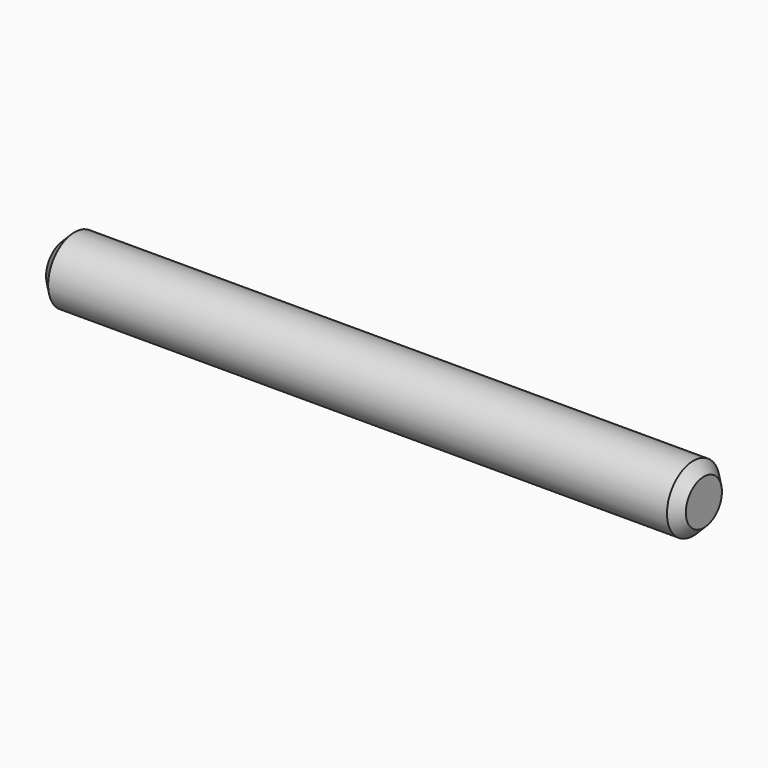
from build123d import *

# Parameters (mm, degrees)
F0_R     = 0.8001
F1_DEPTH = 15.494
F2_SIZE2 = 0.254
F2_SIZE  = 0.254


with BuildPart() as f1:
    # F0 (on Right) → F1 (new body)
    with BuildSketch(Plane.YZ):
        Circle(F0_R)
    extrude(amount=-F1_DEPTH)

    # F2
    f2_edges = [f1.edges().sort_by_distance(p)[0] for p in [
        (-15.494, -0.8001, 0),
        (0, -0.8001, 0),
    ]]
    chamfer(f2_edges, length=F2_SIZE, length2=F2_SIZE2)


solid = f1.part
